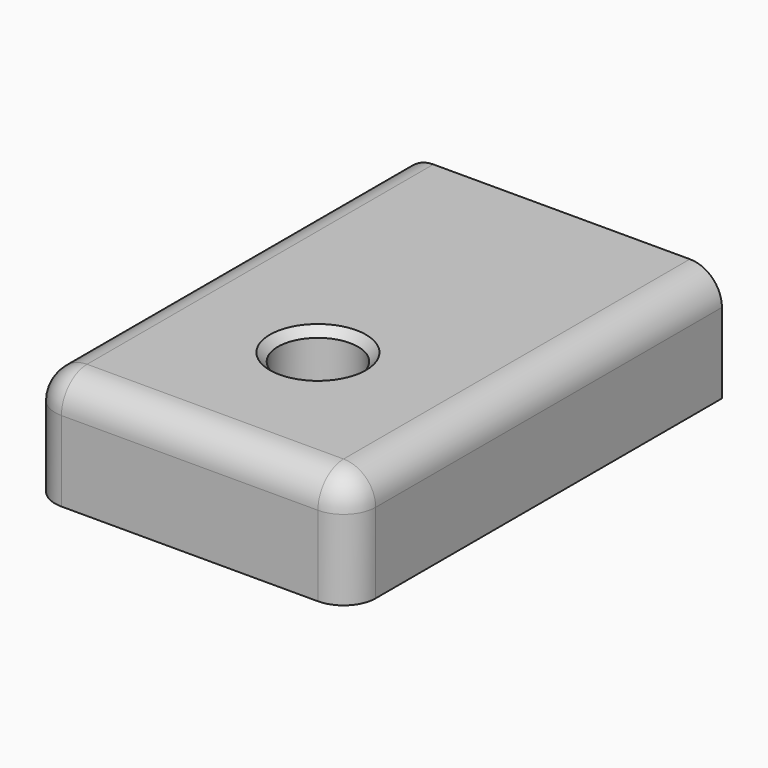
from build123d import *

# Parameters (mm, degrees)
CYLINDER_R     = 2.5
CYLINDER_DEPTH = 20
BOX_W          = 7.5
BOX_H          = 20
BOX_DEPTH      = 4.8
BOX001_W       = 20
BOX001_H       = 29
BOX001_DEPTH   = 7
FILLET_R       = 2
FILLET001_R    = 2
CHAMFER_SIZE   = 0.5


with BuildPart() as cilindro:
    # Cylinder → Cylinder (new body)
    with BuildSketch(Plane(origin=(0, -10, -10), x_dir=(1, 0, 0), z_dir=(0, 0, 1))):
        Circle(CYLINDER_R)
    extrude(amount=CYLINDER_DEPTH)


with BuildPart() as obj1:
    # Box → Box (new body)
    with BuildSketch(Plane(origin=(-3.75, 0, -1), x_dir=(1, 0, 0), z_dir=(0, 0, 1))):
        with Locations((3.75, 10)):
            Rectangle(BOX_W, BOX_H)
    extrude(amount=BOX_DEPTH)


with BuildPart() as chamfer_body:
    # Box001 → Box001 (new body)
    with BuildSketch(Plane(origin=(-10, -20, 0), x_dir=(1, 0, 0), z_dir=(0, 0, 1))):
        with Locations((10, 14.5)):
            Rectangle(BOX001_W, BOX001_H)
    extrude(amount=BOX001_DEPTH)

    # Cut: cut obj1
    add(obj1.part, mode=Mode.SUBTRACT)

    # Cut001: cut Cilindro
    add(cilindro.part, mode=Mode.SUBTRACT)

    # Fillet
    fillet_edges = [chamfer_body.edges().sort_by_distance(p)[0] for p in [
        (-10, -20, 3.5),
        (10, -20, 3.5),
    ]]
    fillet(fillet_edges, radius=FILLET_R)

    # Fillet001
    fillet001_edges = [chamfer_body.edges().sort_by_distance(p)[0] for p in [
        (-10, -4.5, 7),
    ]]
    fillet(fillet001_edges, radius=FILLET001_R)

    # Chamfer
    chamfer_edges = [chamfer_body.edges().sort_by_distance(p)[0] for p in [
        (-2.5, -10, 7),
    ]]
    chamfer(chamfer_edges, length=CHAMFER_SIZE)


solid = chamfer_body.part
